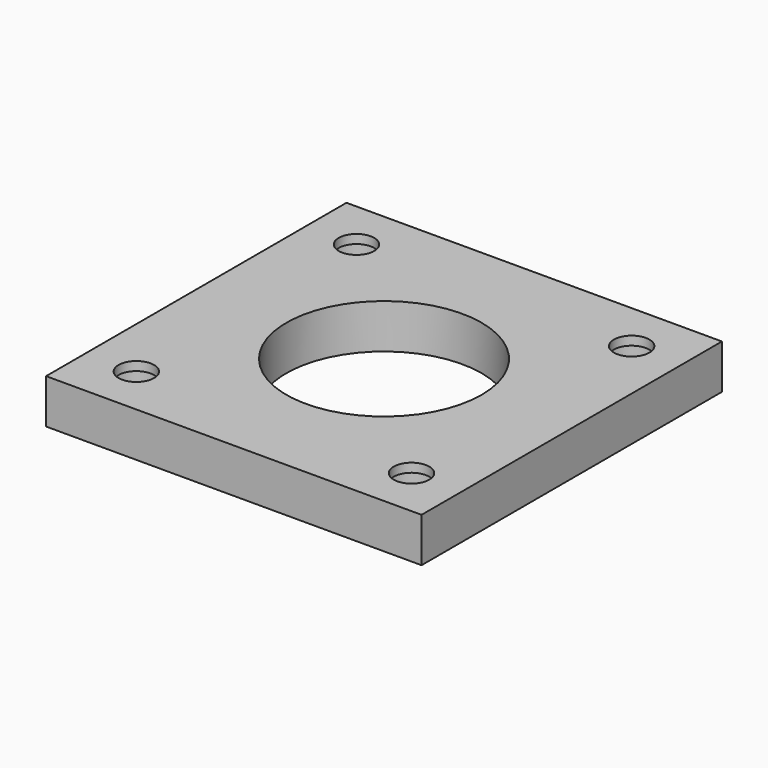
from build123d import *

# Parameters (mm, degrees)
CYLINDER012_R     = 2
CYLINDER012_DEPTH = 5
CYLINDER011_R     = 2.75
CYLINDER011_DEPTH = 4
CYLINDER010_R     = 2
CYLINDER010_DEPTH = 5
CYLINDER009_R     = 2.75
CYLINDER009_DEPTH = 4
CYLINDER008_R     = 2
CYLINDER008_DEPTH = 5
CYLINDER007_R     = 2.75
CYLINDER007_DEPTH = 4
CYLINDER014_R     = 2
CYLINDER014_DEPTH = 5
CYLINDER013_R     = 2.75
CYLINDER013_DEPTH = 4
CYLINDER006_R     = 11
CYLINDER006_DEPTH = 5
BOX005_W          = 42.3
BOX005_H          = 42.3
BOX005_DEPTH      = 5


with BuildPart() as cylinder012:
    # Cylinder012 → Cylinder012 (new body)
    with BuildSketch(Plane.XY.offset(-5)):
        Circle(CYLINDER012_R)
    extrude(amount=CYLINDER012_DEPTH)


with BuildPart() as fusion004:
    # Cylinder011 → Cylinder011 (new body)
    with BuildSketch(Plane.XY.offset(-5)):
        Circle(CYLINDER011_R)
    extrude(amount=CYLINDER011_DEPTH)

    # Fusion004: union Cylinder012
    add(cylinder012.part)


with BuildPart() as fusion004_1:
    # Fusion004 placement: moved
    add(fusion004.part.moved(Location((-15.5, 15.5, 0))))


with BuildPart() as cylinder010:
    # Cylinder010 → Cylinder010 (new body)
    with BuildSketch(Plane.XY.offset(-5)):
        Circle(CYLINDER010_R)
    extrude(amount=CYLINDER010_DEPTH)


with BuildPart() as fusion003:
    # Cylinder009 → Cylinder009 (new body)
    with BuildSketch(Plane.XY.offset(-5)):
        Circle(CYLINDER009_R)
    extrude(amount=CYLINDER009_DEPTH)

    # Fusion003: union Cylinder010
    add(cylinder010.part)


with BuildPart() as fusion003_1:
    # Fusion003 placement: moved
    add(fusion003.part.moved(Location((15.5, -15.5, 0))))


with BuildPart() as cylinder008:
    # Cylinder008 → Cylinder008 (new body)
    with BuildSketch(Plane.XY.offset(-5)):
        Circle(CYLINDER008_R)
    extrude(amount=CYLINDER008_DEPTH)


with BuildPart() as fusion002:
    # Cylinder007 → Cylinder007 (new body)
    with BuildSketch(Plane.XY.offset(-5)):
        Circle(CYLINDER007_R)
    extrude(amount=CYLINDER007_DEPTH)

    # Fusion002: union Cylinder008
    add(cylinder008.part)


with BuildPart() as fusion002_1:
    # Fusion002 placement: moved
    add(fusion002.part.moved(Location((-15.5, -15.5, 0))))


with BuildPart() as cylinder014:
    # Cylinder014 → Cylinder014 (new body)
    with BuildSketch(Plane.XY.offset(-5)):
        Circle(CYLINDER014_R)
    extrude(amount=CYLINDER014_DEPTH)


with BuildPart() as compound006:
    # Cylinder013 → Cylinder013 (new body)
    with BuildSketch(Plane.XY.offset(-5)):
        Circle(CYLINDER013_R)
    extrude(amount=CYLINDER013_DEPTH)

    # Fusion005: union Cylinder014
    add(cylinder014.part)


with BuildPart() as compound006_1:
    # Fusion005 placement: moved
    add(compound006.part.moved(Location((15.5, 15.5, 0))))

    # Compound006: union Fusion004, Fusion003, Fusion002
    add(fusion004_1.part)
    add(fusion003_1.part)
    add(fusion002_1.part)


with BuildPart() as cylinder006:
    # Cylinder006 → Cylinder006 (new body)
    with BuildSketch(Plane.XY.offset(-5)):
        Circle(CYLINDER006_R)
    extrude(amount=CYLINDER006_DEPTH)


with BuildPart() as cut003:
    # Box005 → Box005 (new body)
    with BuildSketch(Plane(origin=(-21.15, -21.15, -5), x_dir=(1, 0, 0), z_dir=(0, 0, 1))):
        with Locations((21.15, 21.15)):
            Rectangle(BOX005_W, BOX005_H)
    extrude(amount=BOX005_DEPTH)

    # Cut002: cut Cylinder006
    add(cylinder006.part, mode=Mode.SUBTRACT)

    # Cut003: cut Compound006
    add(compound006_1.part, mode=Mode.SUBTRACT)


solid = cut003.part
